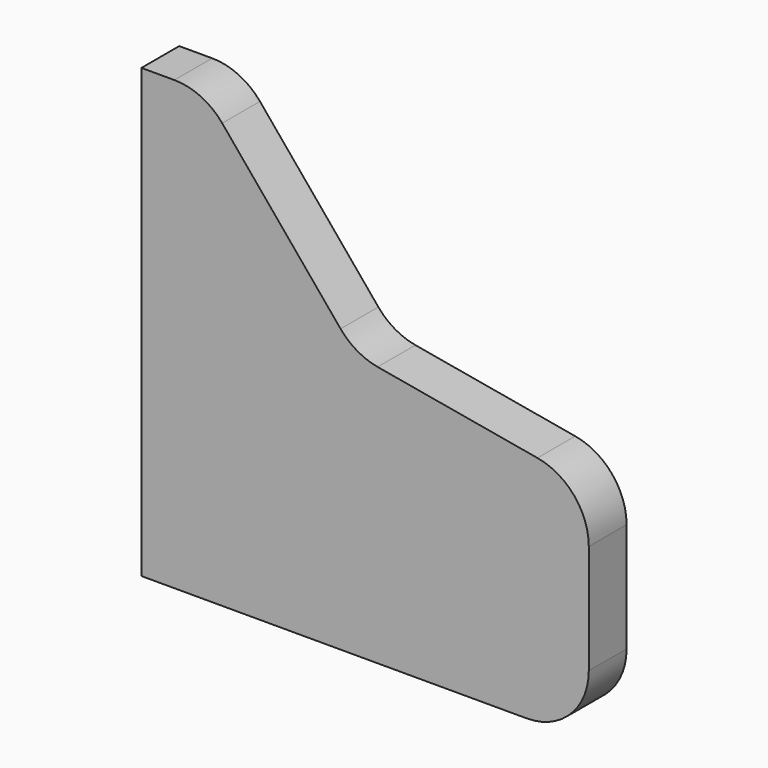
from build123d import *

# Parameters (mm, degrees)
F1_DEPTH = 19
F2_R     = 25


with BuildPart() as f1:
    # F0 (on Front) → F1 (new body)
    with BuildSketch(Plane.XZ):
        Polygon((25, 0), (0, 0), (0, -180), (180, -180), (180, -90), (85.995472, -73.424465), align=None)
    extrude(amount=F1_DEPTH)

    # F2
    f2_edges = [f1.edges().sort_by_distance(p)[0] for p in [
        (25, -9.5, 0),
        (85.995472, -9.5, -73.424465),
        (180, -9.5, -90),
        (180, -9.5, -180),
    ]]
    fillet(f2_edges, radius=F2_R)


solid = f1.part
